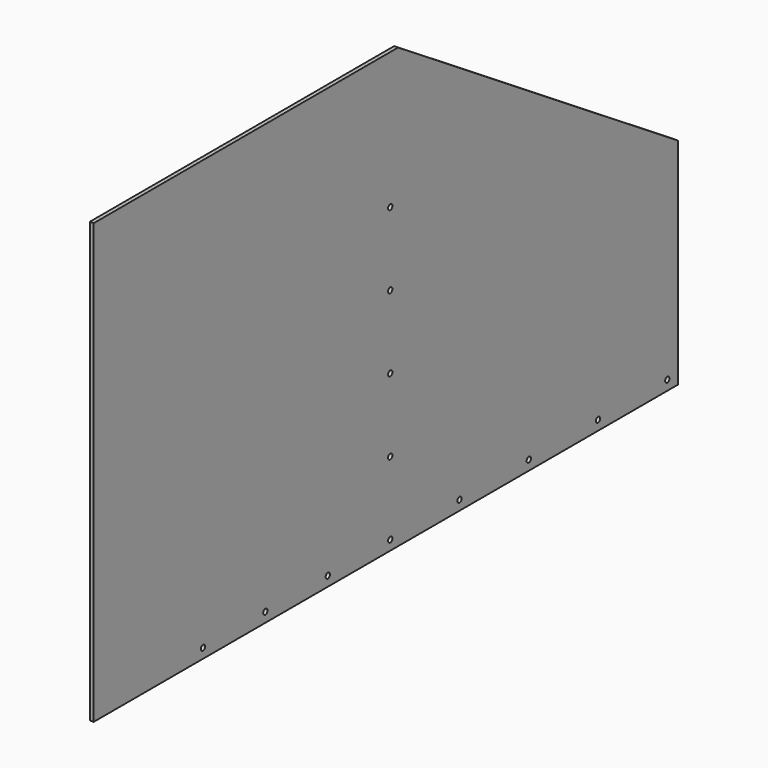
from build123d import *

# Parameters (mm, degrees)
F0_R     = 2.75
F1_DEPTH = 4


with BuildPart() as f1:
    # F0 (on Right) → F1 (new body)
    with BuildSketch(Plane.YZ):
        Polygon((0, 0), (379, 0), (379, 220), (20, 450), (0, 450), (-370, 450), (-370, 0), align=None)
        with Locations((-230, 10)):
            Circle(F0_R, mode=Mode.SUBTRACT)
        with Locations((-150, 10)):
            Circle(F0_R, mode=Mode.SUBTRACT)
        with Locations((-70, 10)):
            Circle(F0_R, mode=Mode.SUBTRACT)
        with Locations((10, 10)):
            Circle(F0_R, mode=Mode.SUBTRACT)
        with Locations((98.75, 10)):
            Circle(F0_R, mode=Mode.SUBTRACT)
        with Locations((187.5, 10)):
            Circle(F0_R, mode=Mode.SUBTRACT)
        with Locations((10, 85)):
            Circle(F0_R, mode=Mode.SUBTRACT)
        with Locations((276.25, 10)):
            Circle(F0_R, mode=Mode.SUBTRACT)
        with Locations((365, 10)):
            Circle(F0_R, mode=Mode.SUBTRACT)
        with Locations((10, 160)):
            Circle(F0_R, mode=Mode.SUBTRACT)
        with Locations((10, 235)):
            Circle(F0_R, mode=Mode.SUBTRACT)
        with Locations((10, 310)):
            Circle(F0_R, mode=Mode.SUBTRACT)
    extrude(amount=F1_DEPTH)


solid = f1.part
